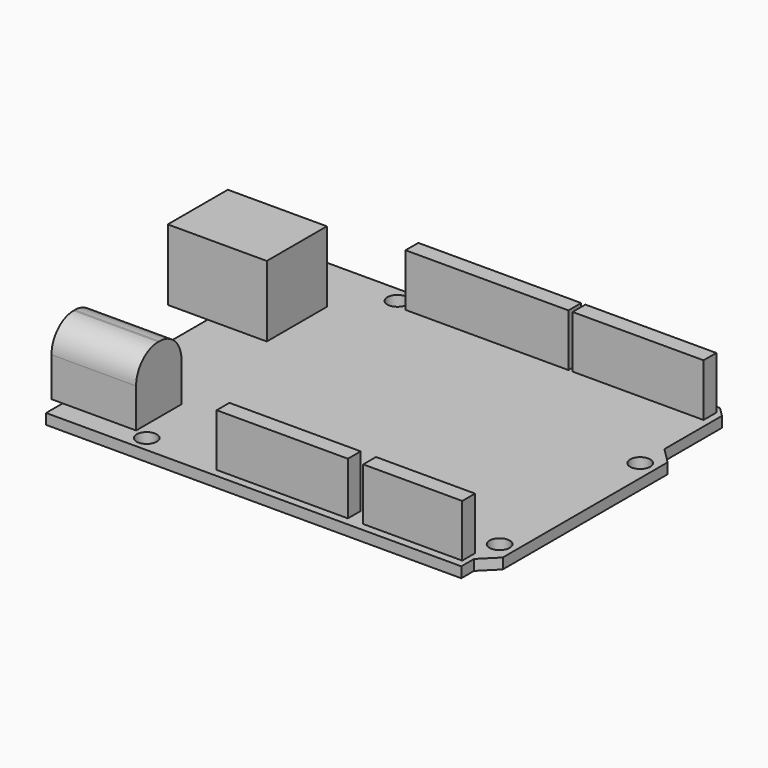
from build123d import *

# Parameters (mm, degrees)
F0_R     = 1.6
F2_DEPTH = 1.6764
F1_W     = 15.75
F1_H     = 11.94
F3_DEPTH = 11.2776
F1_W_2   = 13.46
F1_H_2   = 9.02
F4_DEPTH = 10.6172
F5_R     = 4.3815
F1_W_3   = 20.8788
F1_H_3   = 2.54
F1_W_4   = 15.748
F1_W_5   = 25.908
F1_W_6   = 20.828
F6_DEPTH = 8.3566


with BuildPart() as f2:
    # F0 (on Top) → F2 (new body)
    with BuildSketch(Plane.XY):
        Polygon((30.23, 26.67), (-34.29, 26.67), (-34.29, -26.67), (31.75, -26.67), (31.75, -24.13), (34.29, -21.59), (34.29, 11.18), (31.75, 13.72), (31.75, 25.15), align=None)
        with Locations((-20.32, -24.13)):
            Circle(F0_R, mode=Mode.SUBTRACT)
        with Locations((31.75, -19.05)):
            Circle(F0_R, mode=Mode.SUBTRACT)
        with Locations((-19.05, 24.13)):
            Circle(F0_R, mode=Mode.SUBTRACT)
        with Locations((31.75, 8.89)):
            Circle(F0_R, mode=Mode.SUBTRACT)
    extrude(amount=-F2_DEPTH)

    # F1 (on Top) → F3 (join)
    with BuildSketch(Plane.XY):
        with Locations((-32.765, 11.43)):
            Rectangle(F1_W, F1_H)
    extrude(amount=F3_DEPTH)

    # F1 (on Top) → F4 (join)
    with BuildSketch(Plane.XY):
        with Locations((-29.34, -18.86)):
            Rectangle(F1_W_2, F1_H_2)
    extrude(amount=F4_DEPTH)

    # F5
    f5_edges = [f2.edges().sort_by_distance(p)[0] for p in [
        (-29.34, -23.37, 10.6172),
        (-29.34, -14.35, 10.6172),
    ]]
    fillet(f5_edges, radius=F5_R)

    # F1 (on Top) → F6 (join)
    with BuildSketch(Plane.XY):
        with Locations((2.2606, -24.13)):
            Rectangle(F1_W_3, F1_H_3)
        with Locations((23.0124, -24.13)):
            Rectangle(F1_W_4, F1_H_3)
        with Locations((-3.7846, 24.13)):
            Rectangle(F1_W_5, F1_H_3)
        with Locations((20.2438, 24.13)):
            Rectangle(F1_W_6, F1_H_3)
    extrude(amount=F6_DEPTH)


solid = f2.part
